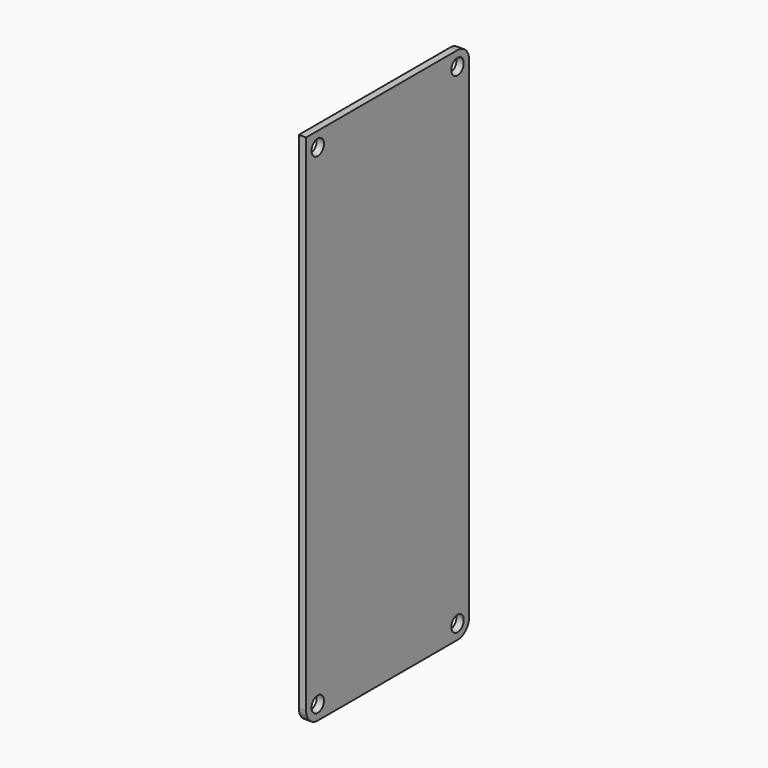
from build123d import *

# Parameters (mm, degrees)
CYLINDER099_R     = 1.6
CYLINDER099_DEPTH = 10
CYLINDER100_R     = 1.6
CYLINDER100_DEPTH = 10
CYLINDER101_R     = 1.6
CYLINDER101_DEPTH = 10
CYLINDER098_R     = 1.6
CYLINDER098_DEPTH = 10
BOX094_W          = 1.5
BOX094_H          = 42
BOX094_DEPTH      = 107
FILLET041_R       = 3


with BuildPart() as cylinder099:
    # Cylinder099 → Cylinder099 (new body)
    with BuildSketch(Plane(origin=(5, 39, 3), x_dir=(0, 0, 1), z_dir=(-1, 0, 0))):
        Circle(CYLINDER099_R)
    extrude(amount=CYLINDER099_DEPTH)


with BuildPart() as cylinder100:
    # Cylinder100 → Cylinder100 (new body)
    with BuildSketch(Plane(origin=(5, 3, 104), x_dir=(0, 0, 1), z_dir=(-1, 0, 0))):
        Circle(CYLINDER100_R)
    extrude(amount=CYLINDER100_DEPTH)


with BuildPart() as cylinder101:
    # Cylinder101 → Cylinder101 (new body)
    with BuildSketch(Plane(origin=(5, 39, 104), x_dir=(0, 0, 1), z_dir=(-1, 0, 0))):
        Circle(CYLINDER101_R)
    extrude(amount=CYLINDER101_DEPTH)


with BuildPart() as m3_cyl003:
    # Cylinder098 → Cylinder098 (new body)
    with BuildSketch(Plane(origin=(5, 3, 3), x_dir=(0, 0, 1), z_dir=(-1, 0, 0))):
        Circle(CYLINDER098_R)
    extrude(amount=CYLINDER098_DEPTH)

    # Fusion082: union Cylinder099, Cylinder100, Cylinder101
    add(cylinder099.part)
    add(cylinder100.part)
    add(cylinder101.part)


with BuildPart() as pcb:
    # Box094 → Box094 (new body)
    with BuildSketch(Plane.XY):
        with Locations((0.75, 21)):
            Rectangle(BOX094_W, BOX094_H)
    extrude(amount=BOX094_DEPTH)

    # Cut063: cut m3_cyl003
    add(m3_cyl003.part, mode=Mode.SUBTRACT)

    # Fillet041
    fillet041_edges = [pcb.edges().sort_by_distance(p)[0] for p in [
        (0.75, 0, 0),
        (0.75, 42, 107),
        (0.75, 42, 0),
    ]]
    fillet(fillet041_edges, radius=FILLET041_R)


solid = pcb.part
